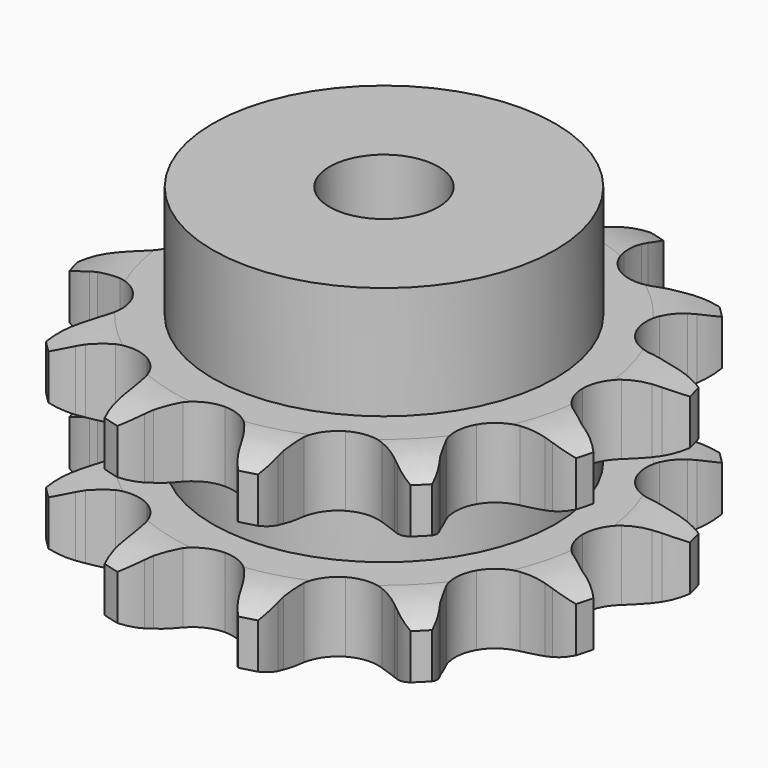
from build123d import *

# Parameters (mm, degrees)
PAD_DEPTH         = 25.5
SKETCH001_R       = 22
PAD001_DEPTH      = 40
SKETCH002_R       = 7
POCKET_DEPTH      = 0.001
POCKET_DEPTH_BACK = 40.001


with BuildPart() as part:
    # Sprocket → Pad (new body)
    with BuildSketch(Plane.XY):
        with BuildLine():
            ThreePointArc((-9.173595, 34.236322), (-7.395683, 32.745267), (-6.083087, 30.831812))
            Line((-6.083087, 30.831812), (-5.633436, 29.936484))
            ThreePointArc((-5.633436, 29.936484), (-4.861767, 28.599914), (-3.94015, 27.361967))
            ThreePointArc((-3.94015, 27.361967), (-2.173737, 26.006551), (0, 25.524645))
            ThreePointArc((0, 25.524645), (2.173737, 26.006551), (3.94015, 27.361967))
            ThreePointArc((3.94015, 27.361967), (4.861767, 28.599914), (5.633436, 29.936484))
            Line((5.633436, 29.936484), (6.083087, 30.831812))
            ThreePointArc((6.083087, 30.831812), (7.395683, 32.745267), (9.173595, 34.236322))
            ThreePointArc((9.173595, 34.236322), (9.967784, 32.056074), (10.147798, 29.742676))
            Line((10.147798, 29.742676), (10.089543, 28.742474))
            ThreePointArc((10.089543, 28.742474), (10.089543, 27.199136), (10.268714, 25.666233))
            ThreePointArc((10.268714, 25.666233), (11.120764, 23.609202), (12.762322, 22.104991))
            ThreePointArc((12.762322, 22.104991), (14.885787, 21.435465), (17.093253, 21.726084))
            Line((17.093253, 21.726084), (19.846941, 23.109038))
            ThreePointArc((19.846941, 23.109038), (20.26028, 23.392215), (20.684014, 23.659589))
            ThreePointArc((20.684014, 23.659589), (22.777483, 24.660392), (25.062727, 25.062727))
            ThreePointArc((25.062727, 25.062727), (24.660392, 22.777483), (23.659589, 20.684014))
            Line((23.659589, 20.684014), (23.109038, 19.846941))
            ThreePointArc((23.109038, 19.846941), (22.337369, 18.510371), (21.726084, 17.093253))
            ThreePointArc((21.726084, 17.093253), (21.435465, 14.885787), (22.104991, 12.762322))
            ThreePointArc((22.104991, 12.762322), (23.609202, 11.120764), (25.666233, 10.268714))
            Line((25.666233, 10.268714), (28.742474, 10.089543))
            ThreePointArc((28.742474, 10.089543), (29.242025, 10.128113), (29.742676, 10.147798))
            ThreePointArc((29.742676, 10.147798), (32.056074, 9.967784), (34.236322, 9.173595))
            ThreePointArc((34.236322, 9.173595), (32.745267, 7.395683), (30.831812, 6.083087))
            Line((30.831812, 6.083087), (29.936484, 5.633436))
            ThreePointArc((29.936484, 5.633436), (28.599914, 4.861767), (27.361967, 3.94015))
            ThreePointArc((27.361967, 3.94015), (26.006551, 2.173737), (25.524645, 0))
            ThreePointArc((25.524645, 0), (26.006551, -2.173737), (27.361967, -3.94015))
            Line((27.361967, -3.94015), (29.936484, -5.633436))
            ThreePointArc((29.936484, -5.633436), (30.388393, -5.84981), (30.831812, -6.083087))
            ThreePointArc((30.831812, -6.083087), (32.745267, -7.395683), (34.236322, -9.173595))
            ThreePointArc((34.236322, -9.173595), (32.056074, -9.967784), (29.742676, -10.147798))
            Line((29.742676, -10.147798), (28.742474, -10.089543))
            ThreePointArc((28.742474, -10.089543), (27.199136, -10.089543), (25.666233, -10.268714))
            ThreePointArc((25.666233, -10.268714), (23.609202, -11.120764), (22.104991, -12.762322))
            ThreePointArc((22.104991, -12.762322), (21.435465, -14.885787), (21.726084, -17.093253))
            Line((21.726084, -17.093253), (23.109038, -19.846941))
            ThreePointArc((23.109038, -19.846941), (23.392215, -20.26028), (23.659589, -20.684014))
            ThreePointArc((23.659589, -20.684014), (24.660392, -22.777483), (25.062727, -25.062727))
            ThreePointArc((25.062727, -25.062727), (22.777483, -24.660392), (20.684014, -23.659589))
            Line((20.684014, -23.659589), (19.846941, -23.109038))
            ThreePointArc((19.846941, -23.109038), (18.510371, -22.337369), (17.093253, -21.726084))
            ThreePointArc((17.093253, -21.726084), (14.885787, -21.435465), (12.762322, -22.104991))
            ThreePointArc((12.762322, -22.104991), (11.120764, -23.609202), (10.268714, -25.666233))
            Line((10.268714, -25.666233), (10.089543, -28.742474))
            ThreePointArc((10.089543, -28.742474), (10.128113, -29.242025), (10.147798, -29.742676))
            ThreePointArc((10.147798, -29.742676), (9.967784, -32.056074), (9.173595, -34.236322))
            ThreePointArc((9.173595, -34.236322), (7.395683, -32.745267), (6.083087, -30.831812))
            Line((6.083087, -30.831812), (5.633436, -29.936484))
            ThreePointArc((5.633436, -29.936484), (4.861767, -28.599914), (3.94015, -27.361967))
            ThreePointArc((3.94015, -27.361967), (2.173737, -26.006551), (0, -25.524645))
            ThreePointArc((0, -25.524645), (-2.173737, -26.006551), (-3.94015, -27.361967))
            Line((-3.94015, -27.361967), (-5.633436, -29.936484))
            ThreePointArc((-5.633436, -29.936484), (-5.84981, -30.388393), (-6.083087, -30.831812))
            ThreePointArc((-6.083087, -30.831812), (-7.395683, -32.745267), (-9.173595, -34.236322))
            ThreePointArc((-9.173595, -34.236322), (-9.967784, -32.056074), (-10.147798, -29.742676))
            Line((-10.147798, -29.742676), (-10.089543, -28.742474))
            ThreePointArc((-10.089543, -28.742474), (-10.089543, -27.199136), (-10.268714, -25.666233))
            ThreePointArc((-10.268714, -25.666233), (-11.120764, -23.609202), (-12.762322, -22.104991))
            ThreePointArc((-12.762322, -22.104991), (-14.885787, -21.435465), (-17.093253, -21.726084))
            Line((-17.093253, -21.726084), (-19.846941, -23.109038))
            ThreePointArc((-19.846941, -23.109038), (-20.26028, -23.392215), (-20.684014, -23.659589))
            ThreePointArc((-20.684014, -23.659589), (-22.777483, -24.660392), (-25.062727, -25.062727))
            ThreePointArc((-25.062727, -25.062727), (-24.660392, -22.777483), (-23.659589, -20.684014))
            Line((-23.659589, -20.684014), (-23.109038, -19.846941))
            ThreePointArc((-23.109038, -19.846941), (-22.337369, -18.510371), (-21.726084, -17.093253))
            ThreePointArc((-21.726084, -17.093253), (-21.435465, -14.885787), (-22.104991, -12.762322))
            ThreePointArc((-22.104991, -12.762322), (-23.609202, -11.120764), (-25.666233, -10.268714))
            Line((-25.666233, -10.268714), (-28.742474, -10.089543))
            ThreePointArc((-28.742474, -10.089543), (-29.242025, -10.128113), (-29.742676, -10.147798))
            ThreePointArc((-29.742676, -10.147798), (-32.056074, -9.967784), (-34.236322, -9.173595))
            ThreePointArc((-34.236322, -9.173595), (-32.745267, -7.395683), (-30.831812, -6.083087))
            Line((-30.831812, -6.083087), (-29.936484, -5.633436))
            ThreePointArc((-29.936484, -5.633436), (-28.599914, -4.861767), (-27.361967, -3.94015))
            ThreePointArc((-27.361967, -3.94015), (-26.006551, -2.173737), (-25.524645, 0))
            ThreePointArc((-25.524645, 0), (-26.006551, 2.173737), (-27.361967, 3.94015))
            Line((-27.361967, 3.94015), (-29.936484, 5.633436))
            ThreePointArc((-29.936484, 5.633436), (-30.388393, 5.84981), (-30.831812, 6.083087))
            ThreePointArc((-30.831812, 6.083087), (-32.745267, 7.395683), (-34.236322, 9.173595))
            ThreePointArc((-34.236322, 9.173595), (-32.056074, 9.967784), (-29.742676, 10.147798))
            Line((-29.742676, 10.147798), (-28.742474, 10.089543))
            ThreePointArc((-28.742474, 10.089543), (-27.199136, 10.089543), (-25.666233, 10.268714))
            ThreePointArc((-25.666233, 10.268714), (-23.609202, 11.120764), (-22.104991, 12.762322))
            ThreePointArc((-22.104991, 12.762322), (-21.435465, 14.885787), (-21.726084, 17.093253))
            Line((-21.726084, 17.093253), (-23.109038, 19.846941))
            ThreePointArc((-23.109038, 19.846941), (-23.392215, 20.26028), (-23.659589, 20.684014))
            ThreePointArc((-23.659589, 20.684014), (-24.660392, 22.777483), (-25.062727, 25.062727))
            ThreePointArc((-25.062727, 25.062727), (-22.777483, 24.660392), (-20.684014, 23.659589))
            Line((-20.684014, 23.659589), (-19.846941, 23.109038))
            ThreePointArc((-19.846941, 23.109038), (-18.510371, 22.337369), (-17.093253, 21.726084))
            ThreePointArc((-17.093253, 21.726084), (-14.885787, 21.435465), (-12.762322, 22.104991))
            ThreePointArc((-12.762322, 22.104991), (-11.120764, 23.609202), (-10.268714, 25.666233))
            Line((-10.268714, 25.666233), (-10.089543, 28.742474))
            ThreePointArc((-10.089543, 28.742474), (-10.128113, 29.242025), (-10.147798, 29.742676))
            ThreePointArc((-10.147798, 29.742676), (-9.967784, 32.056074), (-9.173595, 34.236322))
        make_face()
    extrude(amount=PAD_DEPTH)

    # Sketch → Groove (revolve, cut)
    with BuildSketch(Plane.XZ):
        with BuildLine():
            ThreePointArc((27.025762, 0), (30.60347, 0.405129), (34, 1.6))
            Line((34, 1.6), (34, 7.4))
            ThreePointArc((34, 7.4), (30.60347, 8.594871), (27.025762, 9))
            Line((22, 9), (27.025762, 9))
            Line((22, 16.5), (22, 9))
            Line((27.025762, 16.5), (22, 16.5))
            ThreePointArc((27.025762, 16.5), (30.60347, 16.905129), (34, 18.1))
            Line((34, 18.1), (34, 23.9))
            ThreePointArc((34, 23.9), (30.60347, 25.094871), (27.025762, 25.5))
            Line((27.025762, 25.5), (37.025762, 25.5))
            Line((37.025762, 25.5), (37.025762, 0))
            Line((27.025762, 0), (37.025762, 0))
        make_face()
    revolve(axis=Axis((0, 0, 0), (0, 0, 1)), mode=Mode.SUBTRACT)

    # Sketch001 → Pad001 (join)
    with BuildSketch(Plane.XY):
        Circle(SKETCH001_R)
    extrude(amount=PAD001_DEPTH)

    # Sketch002 → Pocket (cut, two sides)
    with BuildSketch(Plane.XY) as pocket_sk:
        Circle(SKETCH002_R)
    extrude(amount=-POCKET_DEPTH, mode=Mode.SUBTRACT)
    extrude(pocket_sk.sketch, amount=POCKET_DEPTH_BACK, mode=Mode.SUBTRACT)


solid = part.part
